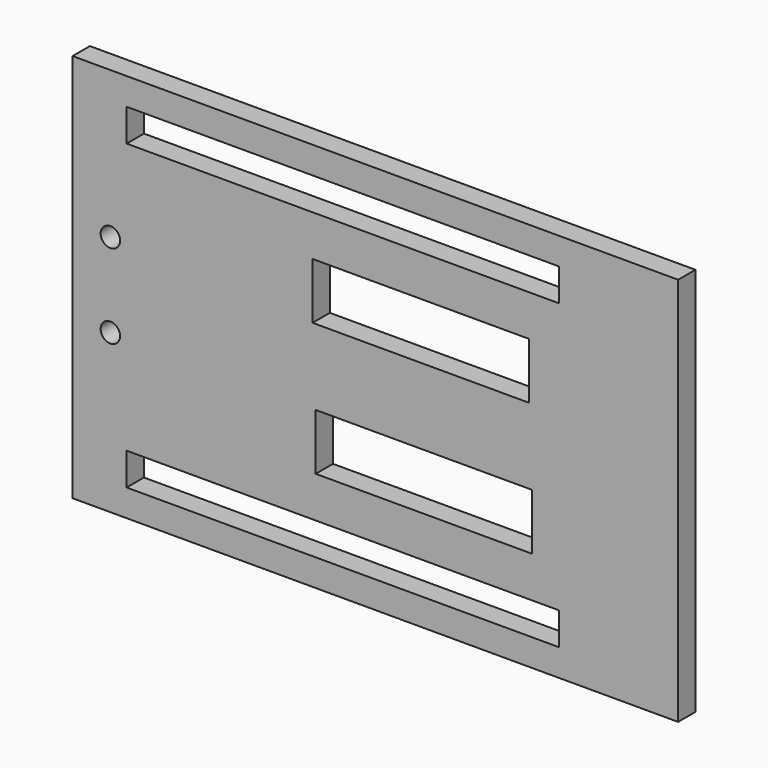
from build123d import *

# Parameters (mm, degrees)
F0_W     = 177.8
F0_H     = 114.3
F0_W_2   = 127
F0_H_2   = 9.525
F0_R     = 2.857261
F0_W_3   = 63.5
F0_H_3   = 16.51
F1_DEPTH = 6.35


with BuildPart() as f1:
    # F0 (on Front) → F1 (new body)
    with BuildSketch(Plane.XZ):
        with Locations((9.525, 1.005727)):
            Rectangle(F0_W, F0_H)
        with Locations((0, -43.444273)):
            Rectangle(F0_W_2, F0_H_2, mode=Mode.SUBTRACT)
        with Locations((-68.285748, -9.696602)):
            Circle(F0_R, mode=Mode.SUBTRACT)
        with Locations((23.758692, -18.361773)):
            Rectangle(F0_W_3, F0_H_3, mode=Mode.SUBTRACT)
        with Locations((-68.285748, 14.975488)):
            Circle(F0_R, mode=Mode.SUBTRACT)
        with Locations((0, 45.455727)):
            Rectangle(F0_W_2, F0_H_2, mode=Mode.SUBTRACT)
        with Locations((22.83777, 20.373227)):
            Rectangle(F0_W_3, F0_H_3, mode=Mode.SUBTRACT)
    extrude(amount=F1_DEPTH)


solid = f1.part
